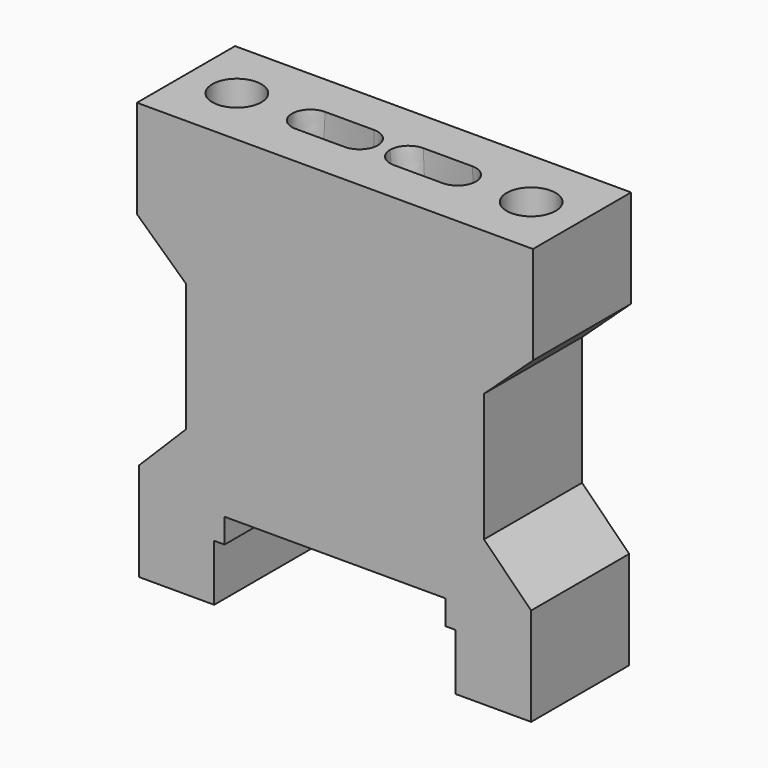
from build123d import *

# Parameters (mm, degrees)
SKETCH066_R     = 2.7
PAD030_DEPTH    = 10
SKETCH063_R     = 2.6
POCKET025_DEPTH = 8
SKETCH064_R     = 3
POCKET026_DEPTH = 1
SKETCH067_R     = 2
POCKET027_DEPTH = 8


with BuildPart() as loft003:
    # Sketch066 → Loft003 section 0
    with BuildSketch(Plane.XY.offset(18)):
        with Locations((-5, 0)):
            Circle(SKETCH066_R)
    # Sketch065 → Loft003 section 1
    with BuildSketch(Plane.XY.offset(38)):
        with BuildLine():
            ThreePointArc((-6, 1.5), (-7.5, 0), (-6, -1.5))
            Line((-6, -1.5), (-2, -1.5))
            ThreePointArc((-2, -1.5), (-0.5, 0), (-2, 1.5))
            Line((-2, 1.5), (-6, 1.5))
        make_face()
    loft()


with BuildPart() as part_mirroring003:
    # Part__Mirroring003: instance of Loft003
    add(loft003.part.mirror(Plane(origin=(0, 0, 0), x_dir=(0, -1, 0), z_dir=(1, 0, 0))))


with BuildPart() as fusion003:
    # Fusion003 base: copy of Loft003
    add(loft003.part)

    # Fusion003: union Part__Mirroring003
    add(part_mirroring003.part)


with BuildPart() as cut002:
    # Sketch062 → Pad030 (new body)
    with BuildSketch(Plane.XZ):
        Polygon((-16, 4), (-9.85, 4), (-9.85, 7), (-9.85, 8.6), (-9, 8.6), (-9, 10.6), (9, 10.6), (9, 8.6), (9.85, 8.6), (9.85, 7), (9.85, 4), (16, 4), (16, 12), (12.15, 15.85), (12.15, 26.306086), (16.15, 30), (16.15, 38), (-16.15, 38), (-16.15, 30), (-12.15, 26.306086), (-12.15, 15.85), (-16, 12), align=None)
    extrude(amount=PAD030_DEPTH)

    # Sketch063 (on Face7 of Pad030) → Pocket025 (cut)
    with BuildSketch(Plane(origin=(0, 0, 10.6), x_dir=(1, 0, 0), z_dir=(0, 0, -1))):
        with Locations((-5, 5)):
            Circle(SKETCH063_R)
        with Locations((5, 5)):
            Circle(SKETCH063_R)
    extrude(amount=-POCKET025_DEPTH, mode=Mode.SUBTRACT)

    # Sketch064 (on Face11 of Pocket025) → Pocket026 (cut)
    with BuildSketch(Plane(origin=(0, 0, 10.6), x_dir=(1, 0, 0), z_dir=(0, 0, -1))):
        with Locations((-5, 5)):
            Circle(SKETCH064_R)
        with Locations((5, 5)):
            Circle(SKETCH064_R)
    extrude(amount=-POCKET026_DEPTH, mode=Mode.SUBTRACT)

    # Sketch067 (on Face22 of Pocket026) → Pocket027 (cut)
    with BuildSketch(Plane(origin=(0, 0, 38), x_dir=(-1, 0, 0), z_dir=(0, 0, 1))):
        with Locations((-12, 5)):
            Circle(SKETCH067_R)
        with Locations((12, 5)):
            Circle(SKETCH067_R)
    extrude(amount=-POCKET027_DEPTH, mode=Mode.SUBTRACT)


with BuildPart() as cut002_1:
    # Body024 placement: moved
    add(cut002.part.moved(Location((0, 5, 0))))

    # Cut002: cut Fusion003
    add(fusion003.part, mode=Mode.SUBTRACT)


with BuildPart() as cut002_2:
    # Cut002 placement: moved
    add(cut002_1.part.moved(Location((0, -196.33, 0))))


solid = cut002_2.part
